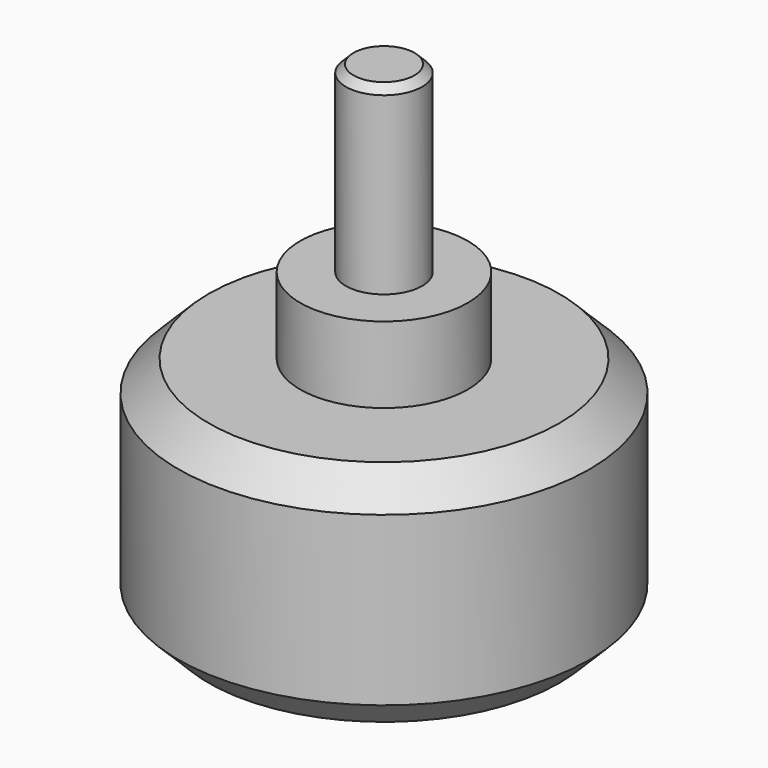
from build123d import *

# Parameters (mm, degrees)
F2_SIZE = 2
F3_SIZE = 0.5


with BuildPart() as f1:
    # F0 (on Front) → F1 (revolve)
    with BuildSketch(Plane.XZ):
        Polygon((0, 32), (0, 0), (13.5, 0), (13.5, 15), (5.5, 15), (5.5, 20), (2.5, 20), (2.5, 32), align=None)
    revolve(axis=Axis((0, 0, 16), (0, 0, -1)))

    # F2
    f2_edges = [f1.edges().sort_by_distance(p)[0] for p in [
        (-13.5, 0, 15),
        (-13.5, 0, 0),
    ]]
    chamfer(f2_edges, length=F2_SIZE)

    # F3
    f3_edges = [f1.edges().sort_by_distance(p)[0] for p in [
        (-2.5, 0, 32),
    ]]
    chamfer(f3_edges, length=F3_SIZE)


solid = f1.part
